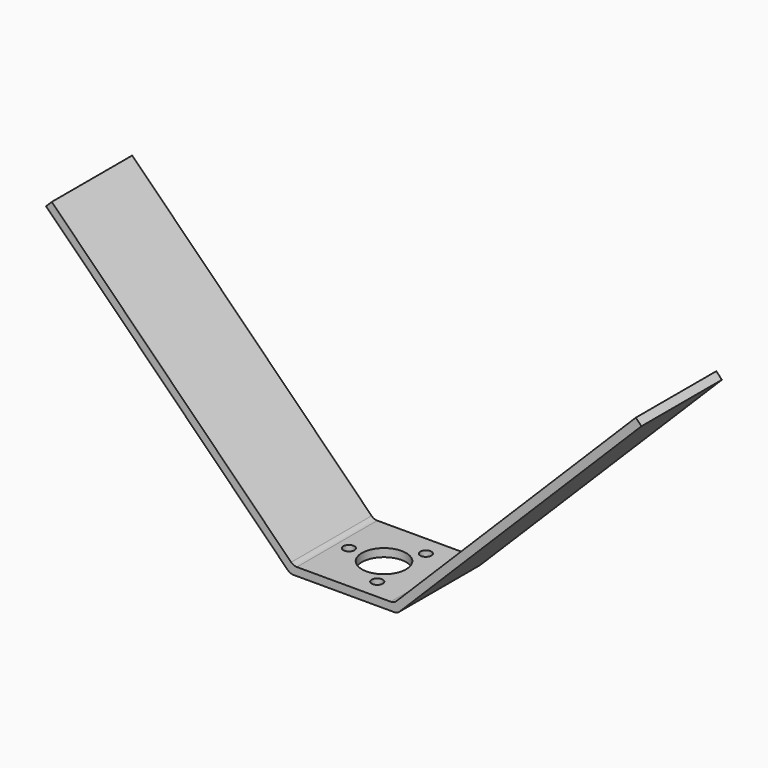
from build123d import *

# Parameters (mm, degrees)
F1_DEPTH = 25
F4_D     = 5.5
F3_R     = 11
F5_DEPTH = 4


with BuildPart() as f1:
    # F0 (on Front) → F1 (new body, symmetric)
    with BuildSketch(Plane.XZ):
        with BuildLine():
            Line((23.3431457505, 0), (0, 0))
            Line((0, 0), (0, -4))
            Line((0, -4), (25, -4))
            ThreePointArc((25, -4), (26.5307337295, -3.69551813), (27.8284271247, -2.8284271247))
            Line((27.8284271247, -2.8284271247), (148.0365799265, 117.379725677))
            Line((148.0365799265, 117.379725677), (145.2081528017, 120.2081528017))
            Line((145.2081528017, 120.2081528017), (26.1715728753, 1.1715728753))
            ThreePointArc((26.1715728753, 1.1715728753), (24.87387948, 0.30448187), (23.3431457505, 0))
        make_face()
    extrude(amount=F1_DEPTH, both=True)

    # F2: F1 across plane


with BuildPart() as f1_1:
    add(f1.part)
    add(f1.part.mirror(Plane.YZ))

    # F4 (through all)
    with Locations(Plane.XY):
        with Locations((-17.45, 0), (8.725, -15.112143296), (8.725, 15.112143296)):
            Hole(F4_D / 2)

    # F3 (on face) → F5 (cut, through all)
    with BuildSketch(Plane.XY):
        Circle(F3_R)
    extrude(amount=-F5_DEPTH, mode=Mode.SUBTRACT)


solid = f1_1.part
